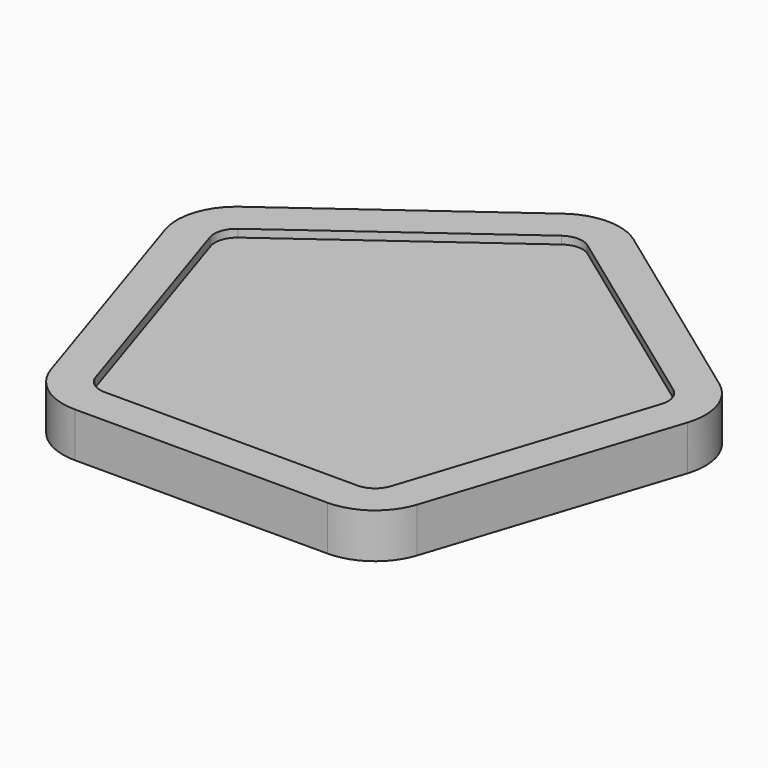
from build123d import *

# Parameters (mm, degrees)
F1_DEPTH = 7.62
F4_DEPTH = 5.08


with BuildPart() as f1:
    # F0 (on Top) → F1 (new body)
    with BuildSketch(Plane.XY):
        with BuildLine():
            Line((40.765598, 19.524771), (5.971898, 44.803873))
            ThreePointArc((5.971898, 44.803873), (0, 46.744261), (-5.971898, 44.803873))
            Line((-5.971898, 44.803873), (-40.765598, 19.524771))
            ThreePointArc((-40.765598, 19.524771), (-44.456434, 14.444771), (-44.456434, 8.165546))
            Line((-44.456434, 8.165546), (-31.166423, -32.736901))
            ThreePointArc((-31.166423, -32.736901), (-27.475587, -37.816901), (-21.503689, -39.757289))
            Line((-21.503689, -39.757289), (21.503689, -39.757289))
            ThreePointArc((21.503689, -39.757289), (27.475587, -37.816901), (31.166423, -32.736901))
            Line((31.166423, -32.736901), (44.456434, 8.165546))
            ThreePointArc((44.456434, 8.165546), (44.456434, 14.444771), (40.765598, 19.524771))
        make_face()
        with BuildLine():
            ThreePointArc((-21.503689, -33.407289), (-23.743151, -32.679643), (-25.127214, -30.774643))
            Line((-25.127214, -30.774643), (-38.417225, 10.127804))
            ThreePointArc((-38.417225, 10.127804), (-38.417225, 12.482513), (-37.033161, 14.387513))
            Line((-37.033161, 14.387513), (-2.239462, 39.666615))
            ThreePointArc((-2.239462, 39.666615), (0, 40.394261), (2.239462, 39.666615))
            Line((2.239462, 39.666615), (37.033161, 14.387513))
            ThreePointArc((37.033161, 14.387513), (38.417225, 12.482513), (38.417225, 10.127804))
            Line((38.417225, 10.127804), (25.127214, -30.774643))
            ThreePointArc((25.127214, -30.774643), (23.743151, -32.679643), (21.503689, -33.407289))
            Line((21.503689, -33.407289), (-21.503689, -33.407289))
        make_face(mode=Mode.SUBTRACT)
    extrude(amount=F1_DEPTH)

    # F3 (on offset) → F4 (join)
    with BuildSketch(Plane.XY.offset(1.27)):
        with BuildLine():
            Line((-38.267369, 10.116663), (-24.977358, -30.785784))
            ThreePointArc((-24.977358, -30.785784), (-23.593295, -32.690784), (-21.353833, -33.418429))
            Line((-21.353833, -33.418429), (21.653545, -33.418429))
            ThreePointArc((21.653545, -33.418429), (23.893007, -32.690784), (25.27707, -30.785784))
            Line((25.27707, -30.785784), (38.567081, 10.116663))
            ThreePointArc((38.567081, 10.116663), (38.567081, 12.471372), (37.183018, 14.376372))
            Line((37.183018, 14.376372), (2.389318, 39.655475))
            ThreePointArc((2.389318, 39.655475), (0.149856, 40.38312), (-2.089606, 39.655475))
            Line((-2.089606, 39.655475), (-36.883305, 14.376372))
            ThreePointArc((-36.883305, 14.376372), (-38.267369, 12.471372), (-38.267369, 10.116663))
        make_face()
    extrude(amount=F4_DEPTH)


solid = f1.part
